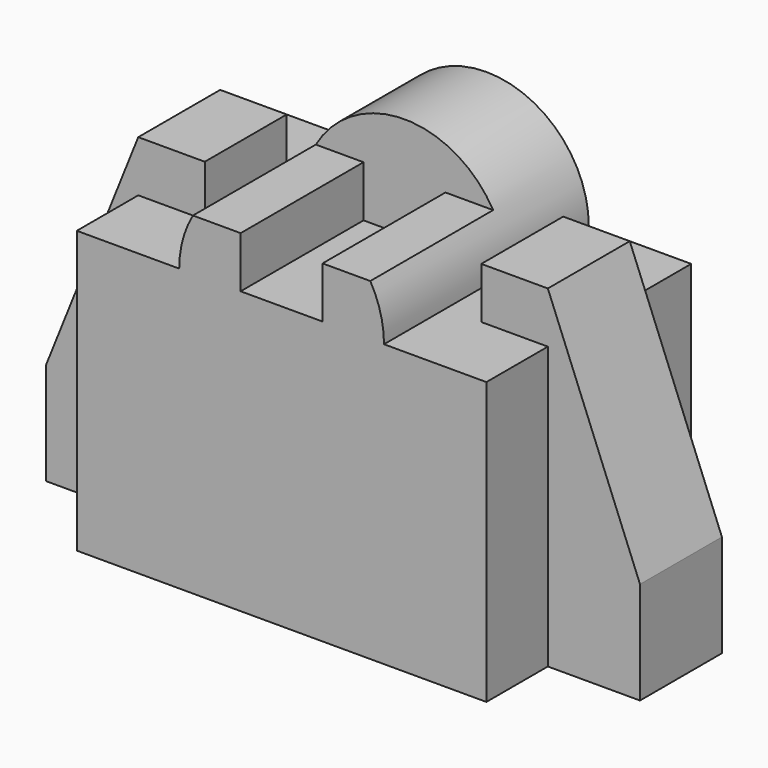
from build123d import *

# Parameters (mm, degrees)
F1_DEPTH      = 25
F1_DEPTH_BACK = 25
F2_W          = 8
F2_H          = 10
F3_DEPTH      = 30
F0_W          = 13
F0_H          = 10
F0_W_2        = 18
F0_H_2        = 20
F4_DEPTH      = 10
F4_DEPTH_BACK = 10


with BuildPart() as f1:
    # F0 (on Front) → F1 (new body, two sides)
    with BuildSketch(Plane.XZ) as f1_sk:
        with BuildLine():
            ThreePointArc((20, 55), (0, 75), (-20, 55))
            Line((-20, 55), (20, 55))
        make_face()
        with BuildLine():
            Line((20, 55), (-20, 55))
            ThreePointArc((-20, 55), (0, 35), (20, 55))
        make_face()
        with BuildLine():
            Line((-40, 55), (-40, 0))
            Line((-40, 0), (40, 0))
            Line((40, 0), (40, 20))
            Line((40, 20), (40, 55))
            Line((40, 55), (27, 55))
            Line((27, 55), (20, 55))
            ThreePointArc((20, 55), (0, 35), (-20, 55))
            Line((-20, 55), (-27, 55))
            Line((-27, 55), (-40, 55))
        make_face()
    extrude(amount=F1_DEPTH)
    extrude(f1_sk.sketch, amount=-F1_DEPTH_BACK)

    # F2 (on face) → F3 (cut)
    with BuildSketch(Plane.XZ.offset(25)):
        with BuildLine():
            Line((22.0221508968, 90.4806110974), (-22.9720887471, 90.4806110974))
            Line((-22.9720887471, 90.4806110974), (-22.9720887471, 65))
            Line((-22.9720887471, 65), (-17.3205080757, 65))
            ThreePointArc((-17.3205080757, 65), (0, 75), (17.3205080757, 65))
            Line((17.3205080757, 65), (22.0221508968, 65))
            Line((22.0221508968, 65), (22.0221508968, 90.4806110974))
        make_face()
        with BuildLine():
            ThreePointArc((17.3205080757, 65), (0, 75), (-17.3205080757, 65))
            Line((-17.3205080757, 65), (-8, 65))
            Line((-8, 65), (0, 65))
            Line((0, 65), (8, 65))
            Line((8, 65), (17.3205080757, 65))
        make_face()
        with Locations((4, 60)):
            Rectangle(F2_W, F2_H)
        with Locations((-4, 60)):
            Rectangle(F2_W, F2_H)
    extrude(amount=-F3_DEPTH, mode=Mode.SUBTRACT)

    # F0 (on Front) → F4 (join, two sides)
    with BuildSketch(Plane.XZ) as f4_sk:
        Polygon((-58, 0), (-40, 0), (-40, 55), (-27, 55), (-27, 65), (-40, 65), (-58, 20), align=None)
        Polygon((40, 55), (40, 20), (58, 20), (40, 65), align=None)
        with Locations((33.5, 60)):
            Rectangle(F0_W, F0_H)
        with Locations((49, 10)):
            Rectangle(F0_W_2, F0_H_2)
    extrude(amount=F4_DEPTH)
    extrude(f4_sk.sketch, amount=-F4_DEPTH_BACK)


solid = f1.part
